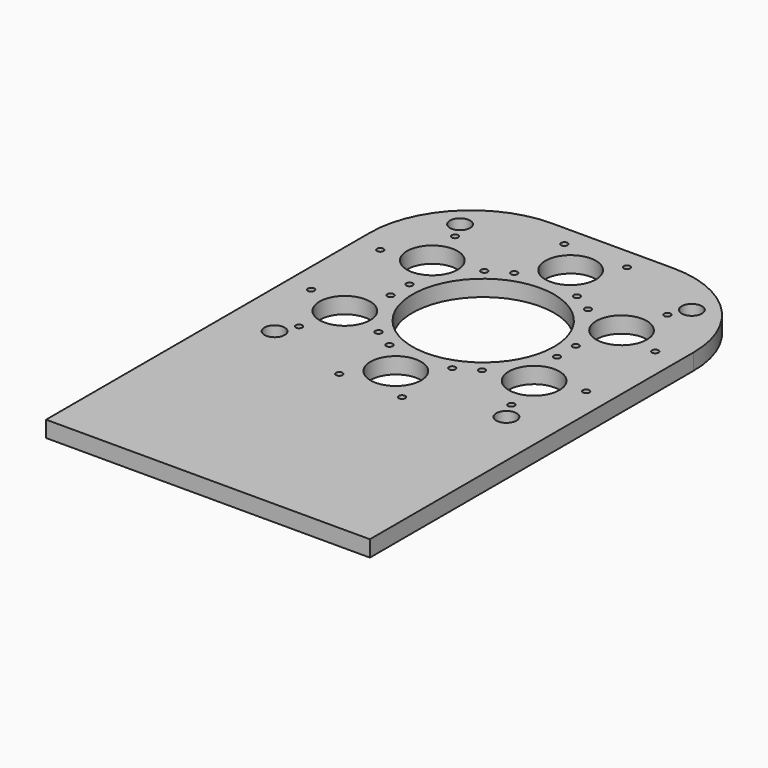
from build123d import *

# Parameters (mm, degrees)
F0_W     = 160
F0_H     = 250
F1_DEPTH = 8
F2_R     = 35
F2_R_2   = 1.6
F2_R_3   = 12.5
F3_DEPTH = 8.001
F4_R     = 5
F5_DEPTH = 8.001
F6_R     = 50


with BuildPart() as f1:
    # F0 (on Top) → F1 (new body)
    with BuildSketch(Plane.XY):
        with Locations((0, -45)):
            Rectangle(F0_W, F0_H)
    extrude(amount=F1_DEPTH)

    # F2 (on Top) → F3 (cut, through all)
    with BuildSketch(Plane.XY):
        Circle(F2_R)
        with Locations((-15.5, 69.5)):
            Circle(F2_R_2)
        with Locations((15.5, 69.5)):
            Circle(F2_R_2)
        with Locations((15.5, 38.5)):
            Circle(F2_R_2)
        with Locations((-15.5, 38.5)):
            Circle(F2_R_2)
        with Locations((0, 54)):
            Circle(F2_R_3)
        with Locations((-67.938766, 21.326606)):
            Circle(F2_R_2)
        with Locations((-41.091978, 5.826606)):
            Circle(F2_R_2)
        with Locations((-25.591978, 32.673394)):
            Circle(F2_R_2)
        with Locations((-52.438766, 48.173394)):
            Circle(F2_R_2)
        with Locations((-46.765372, 27)):
            Circle(F2_R_3)
        with Locations((-52.438766, -48.173394)):
            Circle(F2_R_2)
        with Locations((-25.591978, -32.673394)):
            Circle(F2_R_2)
        with Locations((-41.091978, -5.826606)):
            Circle(F2_R_2)
        with Locations((-67.938766, -21.326606)):
            Circle(F2_R_2)
        with Locations((-46.765372, -27)):
            Circle(F2_R_3)
        with Locations((15.5, -69.5)):
            Circle(F2_R_2)
        with Locations((15.5, -38.5)):
            Circle(F2_R_2)
        with Locations((-15.5, -38.5)):
            Circle(F2_R_2)
        with Locations((-15.5, -69.5)):
            Circle(F2_R_2)
        with Locations((0, -54)):
            Circle(F2_R_3)
        with Locations((67.938766, -21.326606)):
            Circle(F2_R_2)
        with Locations((41.091978, -5.826606)):
            Circle(F2_R_2)
        with Locations((25.591978, -32.673394)):
            Circle(F2_R_2)
        with Locations((52.438766, -48.173394)):
            Circle(F2_R_2)
        with Locations((46.765372, -27)):
            Circle(F2_R_3)
        with Locations((52.438766, 48.173394)):
            Circle(F2_R_2)
        with Locations((25.591978, 32.673394)):
            Circle(F2_R_2)
        with Locations((41.091978, 5.826606)):
            Circle(F2_R_2)
        with Locations((67.938766, 21.326606)):
            Circle(F2_R_2)
        with Locations((46.765372, 27)):
            Circle(F2_R_3)
    extrude(amount=F3_DEPTH, mode=Mode.SUBTRACT)

    # F4 (on Top) → F5 (cut, through all)
    with BuildSketch(Plane.XY):
        with Locations((57.275649, 57.275649)):
            Circle(F4_R)
        with Locations((-57.275649, 57.275649)):
            Circle(F4_R)
        with Locations((-57.275649, -57.275649)):
            Circle(F4_R)
        with Locations((57.275649, -57.275649)):
            Circle(F4_R)
    extrude(amount=F5_DEPTH, mode=Mode.SUBTRACT)

    # F6
    f6_edges = [f1.edges().sort_by_distance(p)[0] for p in [
        (80, 80, 4),
        (-80, 80, 4),
    ]]
    fillet(f6_edges, radius=F6_R)


solid = f1.part
